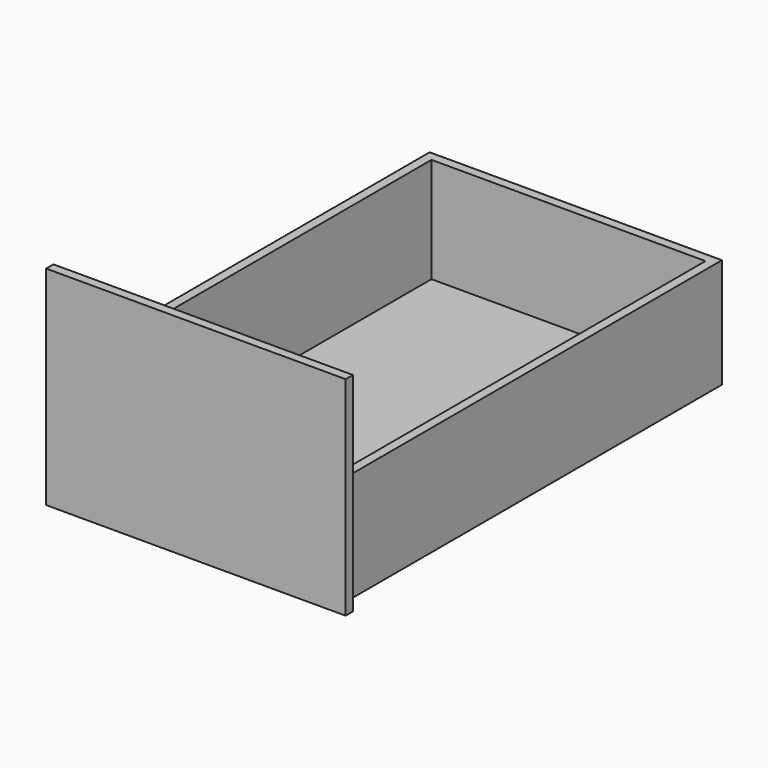
from build123d import *

# Parameters (mm, degrees)
F0_W     = 406.4
F0_H     = 647.7
F1_DEPTH = 152.4
F2_W     = 416.56
F2_H     = 289.56
F2_W_2   = 406.4
F2_H_2   = 152.4
F3_DEPTH = 12.7
F4_W     = 381
F4_H     = 635
F5_DEPTH = 146.05


with BuildPart() as f1:
    # F0 (on Top) → F1 (new body)
    with BuildSketch(Plane.XY):
        with Locations((203.2, -323.85)):
            Rectangle(F0_W, F0_H)
    extrude(amount=F1_DEPTH)

    # F2 (on face) → F3 (join)
    with BuildSketch(Plane.XZ.offset(647.7)):
        with Locations((203.2, 132.08)):
            Rectangle(F2_W, F2_H)
        with Locations((203.2, 76.2)):
            Rectangle(F2_W_2, F2_H_2, mode=Mode.SUBTRACT)
        with Locations((203.2, 76.2)):
            Rectangle(F2_W_2, F2_H_2)
    extrude(amount=F3_DEPTH)

    # F4 (on face) → F5 (cut)
    with BuildSketch(Plane.XY.offset(152.4)):
        with Locations((203.2, -330.2)):
            Rectangle(F4_W, F4_H)
    extrude(amount=-F5_DEPTH, mode=Mode.SUBTRACT)


solid = f1.part
